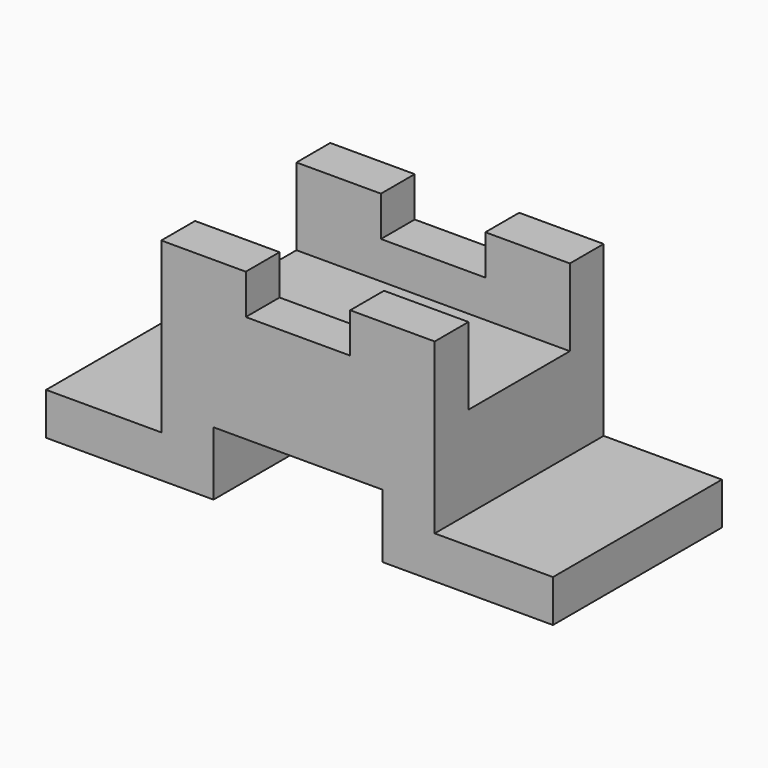
from build123d import *

# Parameters (mm, degrees)
F1_DEPTH = 50
F2_W     = 30
F2_H     = 18.285982
F3_DEPTH = 92.000995


with BuildPart() as f1:
    # F0 (on Front) → F1 (new body)
    with BuildSketch(Plane.XZ):
        Polygon((0, 15.090908), (0, 0), (40.363642, 0), (40.363642, 10), (12.363637, 10), (12.363637, 50), (-7.636363, 50), (-7.636363, 40.545456), (-32.363635, 40.545456), (-32.363635, 50), (-52.363635, 50), (-52.363635, 10), (-79.636358, 10), (-79.636358, 0), (-40, 0), (-40, 15.090908), align=None)
    extrude(amount=-F1_DEPTH)

    # F2 (on face) → F3 (cut, through all)
    with BuildSketch(Plane.YZ.offset(12.363637)):
        with Locations((25, 40.857009)):
            Rectangle(F2_W, F2_H)
    extrude(amount=-F3_DEPTH, mode=Mode.SUBTRACT)


solid = f1.part
